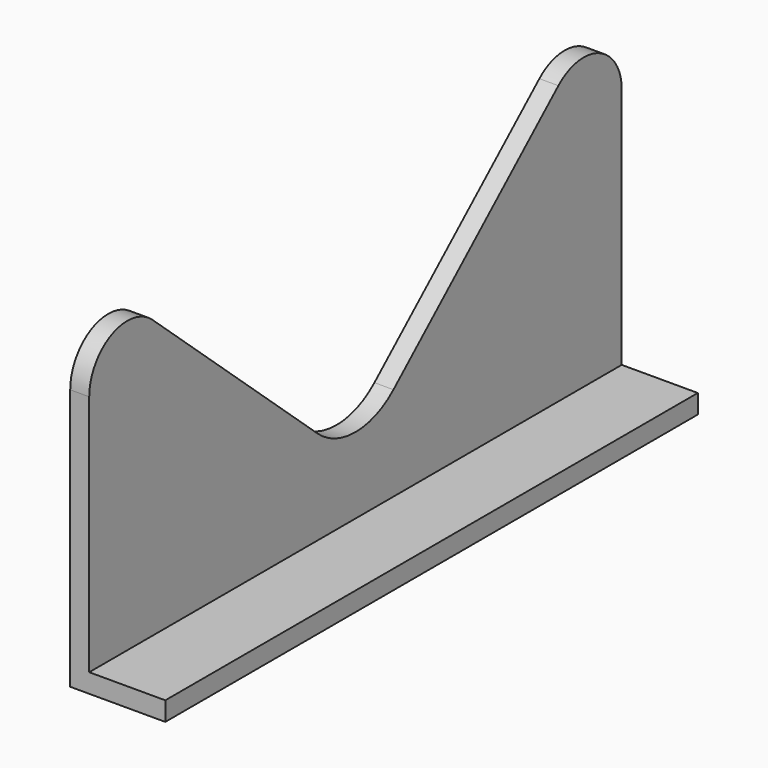
from build123d import *

# Parameters (mm, degrees)
F1_DEPTH = 177.8
F4_DEPTH = 25.4


with BuildPart() as f1:
    # F0 (on Front) → F1 (new body)
    with BuildSketch(Plane.XZ):
        Polygon((0, 82.55), (0, 0), (25.4, 0), (25.4, 5.08), (5.08, 5.08), (5.08, 82.55), align=None)
    extrude(amount=F1_DEPTH)

    # F3 (on face) → F4 (cut)
    with BuildSketch(Plane(origin=(0, 0, 0), x_dir=(0, -1, 0), z_dir=(-1, 0, 0))):
        with BuildLine():
            ThreePointArc((0, 69.85), (7.505978, 81.439311), (21.151517, 79.32955))
            Line((21.151517, 79.32955), (76.222725, 30.230675))
            ThreePointArc((76.222725, 30.230675), (88.9, 25.4), (101.577275, 30.230675))
            Line((101.577275, 30.230675), (156.648483, 79.32955))
            ThreePointArc((156.648483, 79.32955), (170.294022, 81.439311), (177.8, 69.85))
            Line((177.8, 69.85), (203.2, 69.85))
            Line((203.2, 69.85), (203.2, 95.25))
            Line((203.2, 95.25), (-25.4, 95.25))
            Line((-25.4, 95.25), (-25.4, 69.85))
            Line((-25.4, 69.85), (0, 69.85))
        make_face()
    extrude(amount=-F4_DEPTH, mode=Mode.SUBTRACT)


solid = f1.part
